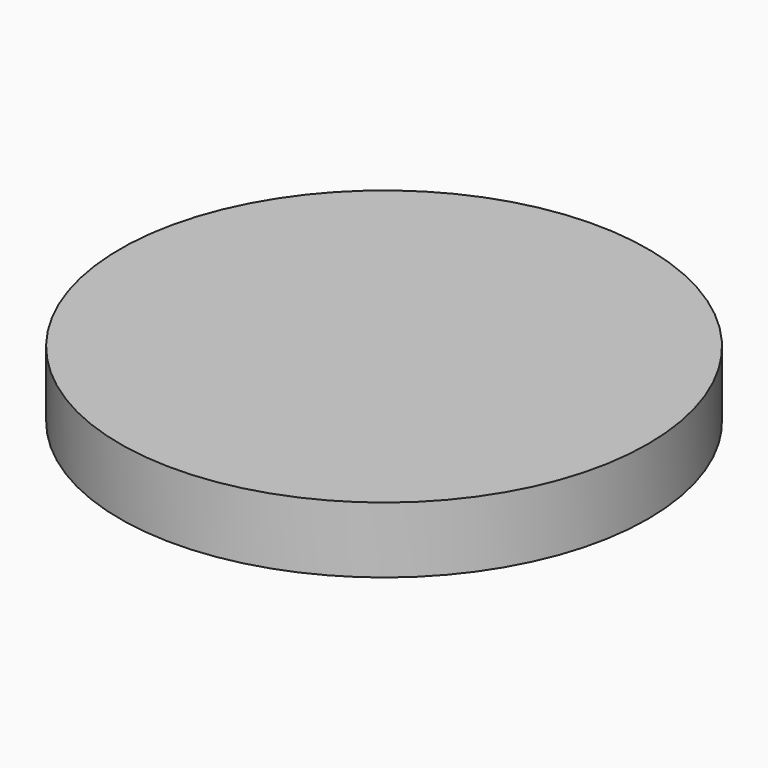
from build123d import *

# Parameters (mm, degrees)
F0_R     = 50
F1_DEPTH = 12.5


with BuildPart() as f1:
    # F0 (on Top) → F1 (new body)
    with BuildSketch(Plane.XY):
        Circle(F0_R)
    extrude(amount=F1_DEPTH)


with BuildPart() as f1_1:
    # F2: moved
    add(f1.part.moved(Location((0, 0, 10))))


solid = f1_1.part
